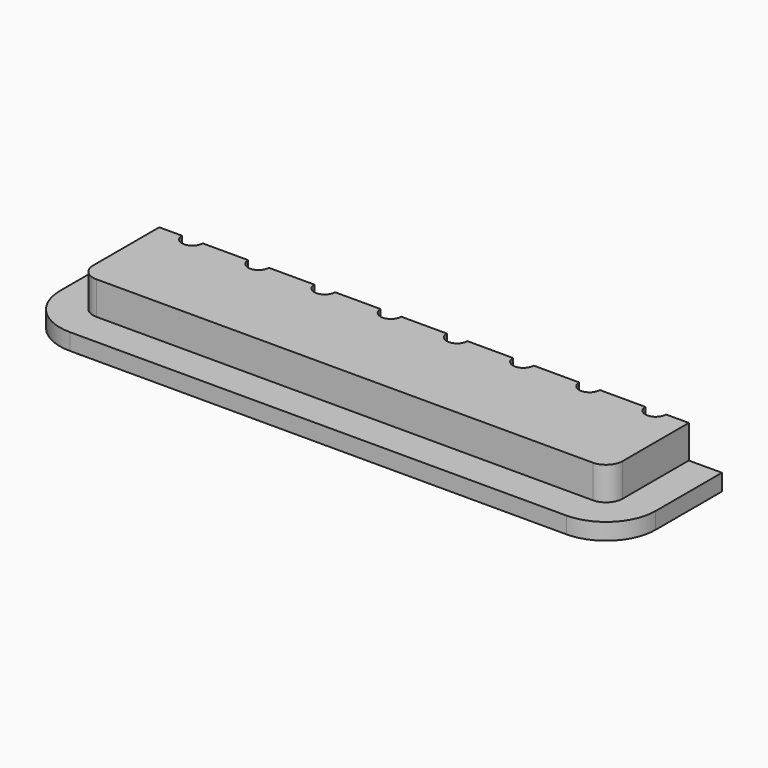
from build123d import *

# Parameters (mm, degrees)
F1_DEPTH = 6.35
F3_DEPTH = 12.7
F5_DEPTH = 25.4


with BuildPart() as f1:
    # F0 (on Top) → F1 (new body)
    with BuildSketch(Plane.XY):
        with BuildLine():
            ThreePointArc((0, 19.05), (5.579616, 5.579616), (19.05, 0))
            Line((19.05, 0), (209.55, 0))
            ThreePointArc((209.55, 0), (223.020384, 5.579616), (228.6, 19.05))
            Line((228.6, 19.05), (228.6, 50.8))
            Line((228.6, 50.8), (0, 50.8))
            Line((0, 50.8), (0, 19.05))
        make_face()
    extrude(amount=F1_DEPTH)

    # F2 (on face) → F3 (join)
    with BuildSketch(Plane.XY.offset(6.35)):
        with BuildLine():
            Line((12.7, 50.8), (12.7, 19.05))
            ThreePointArc((12.7, 19.05), (14.559872, 14.559872), (19.05, 12.7))
            Line((19.05, 12.7), (209.55, 12.7))
            ThreePointArc((209.55, 12.7), (214.040128, 14.559872), (215.9, 19.05))
            Line((215.9, 19.05), (215.9, 50.8))
            Line((215.9, 50.8), (12.7, 50.8))
        make_face()
    extrude(amount=F3_DEPTH)

    # F4 (on face) → F5 (cut)
    with BuildSketch(Plane.XY.offset(19.05)):
        with BuildLine():
            ThreePointArc((29.36875, 50.8), (25.4, 54.76875), (21.43125, 50.8))
            Line((21.43125, 50.8), (29.36875, 50.8))
        make_face()
        with BuildLine():
            Line((29.36875, 50.8), (21.43125, 50.8))
            ThreePointArc((21.43125, 50.8), (25.4, 46.83125), (29.36875, 50.8))
        make_face()
        with BuildLine():
            ThreePointArc((54.76875, 50.8), (50.8, 54.76875), (46.83125, 50.8))
            Line((46.83125, 50.8), (54.76875, 50.8))
        make_face()
        with BuildLine():
            Line((54.76875, 50.8), (46.83125, 50.8))
            ThreePointArc((46.83125, 50.8), (50.8, 46.83125), (54.76875, 50.8))
        make_face()
        with BuildLine():
            ThreePointArc((72.23125, 50.8), (76.2, 46.83125), (80.16875, 50.8))
            Line((80.16875, 50.8), (72.23125, 50.8))
        make_face()
        with BuildLine():
            ThreePointArc((199.23125, 50.8), (203.2, 46.83125), (207.16875, 50.8))
            Line((207.16875, 50.8), (199.23125, 50.8))
        make_face()
        with BuildLine():
            ThreePointArc((173.83125, 50.8), (177.8, 46.83125), (181.76875, 50.8))
            Line((181.76875, 50.8), (173.83125, 50.8))
        make_face()
        with BuildLine():
            ThreePointArc((148.43125, 50.8), (152.4, 46.83125), (156.36875, 50.8))
            Line((156.36875, 50.8), (148.43125, 50.8))
        make_face()
        with BuildLine():
            ThreePointArc((123.03125, 50.8), (127, 46.83125), (130.96875, 50.8))
            Line((130.96875, 50.8), (123.03125, 50.8))
        make_face()
        with BuildLine():
            Line((97.63125, 50.8), (105.56875, 50.8))
            ThreePointArc((105.56875, 50.8), (101.6, 54.76875), (97.63125, 50.8))
        make_face()
        with BuildLine():
            Line((72.23125, 50.8), (80.16875, 50.8))
            ThreePointArc((80.16875, 50.8), (76.2, 54.76875), (72.23125, 50.8))
        make_face()
        with BuildLine():
            Line((199.23125, 50.8), (207.16875, 50.8))
            ThreePointArc((207.16875, 50.8), (203.2, 54.76875), (199.23125, 50.8))
        make_face()
        with BuildLine():
            Line((173.83125, 50.8), (181.76875, 50.8))
            ThreePointArc((181.76875, 50.8), (177.8, 54.76875), (173.83125, 50.8))
        make_face()
        with BuildLine():
            Line((148.43125, 50.8), (156.36875, 50.8))
            ThreePointArc((156.36875, 50.8), (152.4, 54.76875), (148.43125, 50.8))
        make_face()
        with BuildLine():
            Line((123.03125, 50.8), (130.96875, 50.8))
            ThreePointArc((130.96875, 50.8), (127, 54.76875), (123.03125, 50.8))
        make_face()
        with BuildLine():
            ThreePointArc((97.63125, 50.8), (101.6, 46.83125), (105.56875, 50.8))
            Line((105.56875, 50.8), (97.63125, 50.8))
        make_face()
    extrude(amount=-F5_DEPTH, mode=Mode.SUBTRACT)


solid = f1.part
